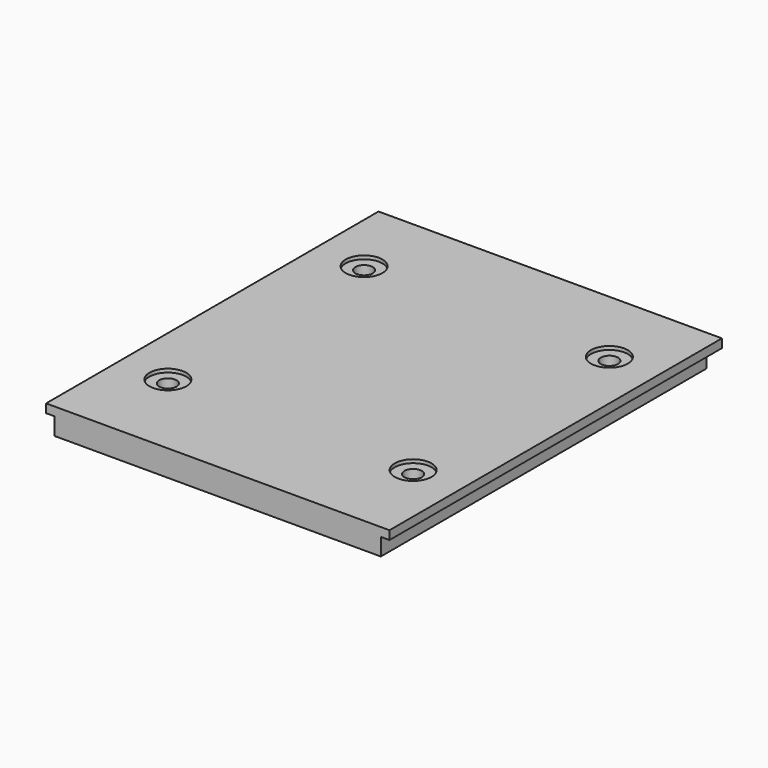
from build123d import *

# Parameters (mm, degrees)
SKETCH016_W     = 238
SKETCH016_H     = 288
PAD006_DEPTH    = 18
SKETCH018_W     = 6
SKETCH018_H     = 12
POCKET010_DEPTH = 238
SKETCH017_W     = 6
SKETCH017_H     = 12
POCKET011_DEPTH = 288
SKETCH019_R     = 6
POCKET012_DEPTH = 18
SKETCH020_R     = 12.75
POCKET013_DEPTH = 2.4


with BuildPart() as part:
    # Sketch016 → Pad006 (new body)
    with BuildSketch(Plane.XY):
        with Locations((0, 144)):
            Rectangle(SKETCH016_W, SKETCH016_H)
    extrude(amount=PAD006_DEPTH)

    # Sketch018 (on Face4 of Pad006) → Pocket010 (cut)
    with BuildSketch(Plane(origin=(-119, 0, 0), x_dir=(0, -1, 0), z_dir=(-1, 0, 0))):
        with Locations((-285, 6)):
            Rectangle(SKETCH018_W, SKETCH018_H)
    extrude(amount=-POCKET010_DEPTH, mode=Mode.SUBTRACT)

    # Sketch017 (on Face3 of Pad006) → Pocket011 (cut)
    with BuildSketch(Plane.XZ):
        with Locations((-116, 6)):
            Rectangle(SKETCH017_W, SKETCH017_H)
    pocket011 = extrude(amount=-POCKET011_DEPTH, mode=Mode.SUBTRACT)

    # Mirrored001: Pocket011 across Sketch017 V_Axis
    add(pocket011.mirror(Plane(origin=(0, 0, 0), x_dir=(0, -1, 0), z_dir=(1, 0, 0))), mode=Mode.SUBTRACT)

    # Sketch019 (on Face6 of Mirrored001) → Pocket012 (cut)
    with BuildSketch(Plane.XY.offset(18)):
        with Locations((-85, 63)):
            Circle(SKETCH019_R)
        with Locations((-85, 233)):
            Circle(SKETCH019_R)
        with Locations((85, 233)):
            Circle(SKETCH019_R)
        with Locations((85, 63)):
            Circle(SKETCH019_R)
    extrude(amount=-POCKET012_DEPTH, mode=Mode.SUBTRACT)

    # Sketch020 (on Face6 of Pocket012) → Pocket013 (cut)
    with BuildSketch(Plane.XY.offset(18)):
        with Locations((-85, 63)):
            Circle(SKETCH020_R)
        with Locations((85, 63)):
            Circle(SKETCH020_R)
        with Locations((85, 233)):
            Circle(SKETCH020_R)
        with Locations((-85, 233)):
            Circle(SKETCH020_R)
    extrude(amount=-POCKET013_DEPTH, mode=Mode.SUBTRACT)


solid = part.part
